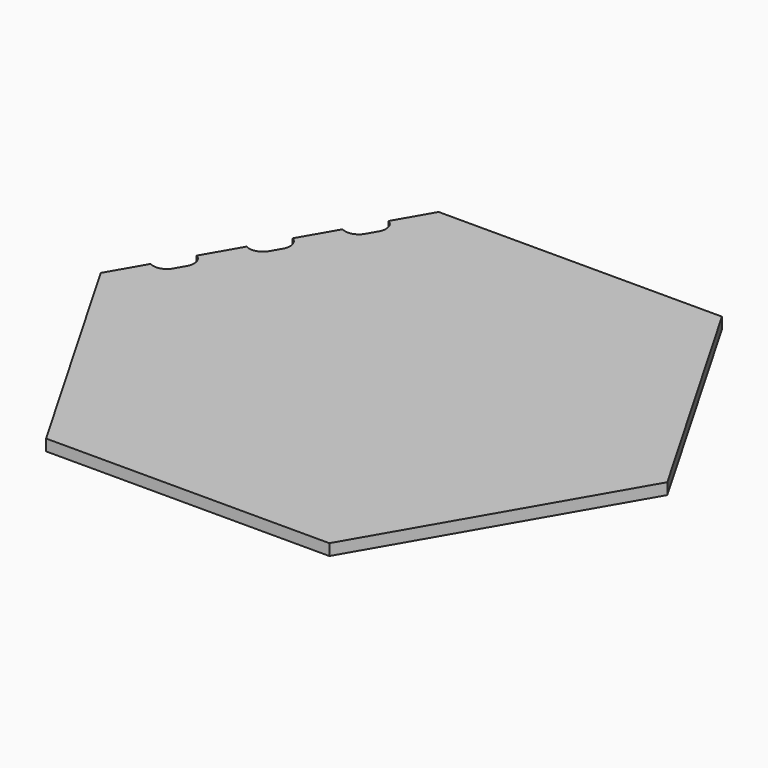
from build123d import *

# Parameters (mm, degrees)
F1_DEPTH = 0.5
F3_DEPTH = 0.501
F5_ANGLE = 240


with BuildPart() as f1:
    # F0 (on Top) → F1 (new body)
    with BuildSketch(Plane.XY):
        Polygon((6.25, -10.825318), (12.5, 0), (6.25, 10.825318), (-6.25, 10.825318), (-12.5, 0), (-6.25, -10.825318), align=None)
    extrude(amount=F1_DEPTH)

    # F2 (on face) → F3 (cut, through all)
    with BuildSketch(Plane.XY.offset(0.5)):
        with BuildLine():
            ThreePointArc((4.4, -10.825318), (4.224264, -10.401053), (3.8, -10.225318))
            Line((3.8, -10.225318), (3.3, -10.225318))
            ThreePointArc((3.3, -10.225318), (2.875736, -10.401053), (2.7, -10.825318))
            Line((2.7, -10.825318), (4.4, -10.825318))
        make_face()
        with BuildLine():
            ThreePointArc((0.85, -10.825318), (0.674264, -10.401053), (0.25, -10.225318))
            Line((0.25, -10.225318), (-0.25, -10.225318))
            ThreePointArc((-0.25, -10.225318), (-0.674264, -10.401053), (-0.85, -10.825318))
            Line((-0.85, -10.825318), (0.85, -10.825318))
        make_face()
        with BuildLine():
            ThreePointArc((-2.7, -10.825318), (-2.875736, -10.401053), (-3.3, -10.225318))
            Line((-3.3, -10.225318), (-3.8, -10.225318))
            ThreePointArc((-3.8, -10.225318), (-4.224264, -10.401053), (-4.4, -10.825318))
            Line((-4.4, -10.825318), (-2.7, -10.825318))
        make_face()
    extrude(amount=-F3_DEPTH, mode=Mode.SUBTRACT)


with BuildPart() as f1_1:
    # F5: moved
    add(f1.part.rotate(Axis((0, 0, -0.899577), (0, 0, 1)), F5_ANGLE))


solid = f1_1.part
